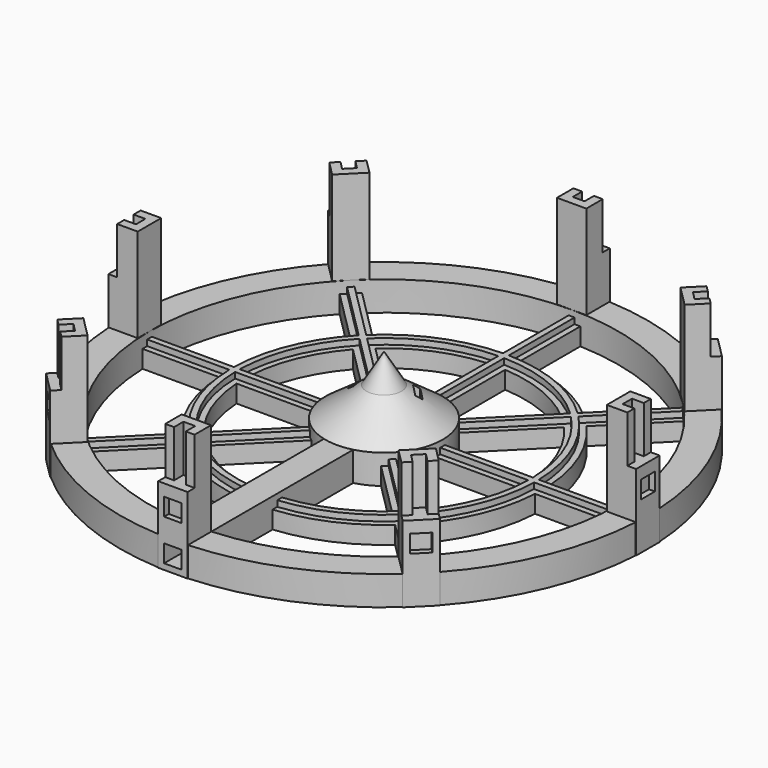
from build123d import *

# Parameters (mm, degrees)
SKETCH001_W     = 3
SKETCH001_H     = 3
PAD001_DEPTH    = 45
SKETCH002_W     = 1
SKETCH002_H     = 45
PAD002_DEPTH    = 1
SKETCH003_W     = 5
SKETCH003_H     = 5
PAD003_DEPTH    = 13
PAD004_DEPTH    = 8
SKETCH006_W     = 3
SKETCH006_H     = 3
POCKET_DEPTH    = 1
SKETCH009_W     = 3
SKETCH009_H     = 7
POCKET001_DEPTH = 5
ARRAY_COUNT     = 8
SKETCH010_R     = 45
SKETCH010_R_2   = 40
PAD005_DEPTH    = 5
SKETCH011_R     = 27
SKETCH011_R_2   = 24
PAD006_DEPTH    = 3
SKETCH012_R     = 26
SKETCH012_R_2   = 25
PAD007_DEPTH    = 1
SKETCH013_W     = 5
SKETCH013_H     = 5
PAD008_DEPTH    = 38
SKETCH_R        = 10
PAD_DEPTH       = 5
SKETCH014_R     = 9
POCKET002_DEPTH = 5
SKETCH016_W     = 5
SKETCH016_H     = 5
PAD009_DEPTH    = 10
SKETCH015_W     = 3
SKETCH015_H     = 3
POCKET003_DEPTH = 100
POCKET004_DEPTH = 1
SKETCH018_W     = 1
SKETCH018_H     = 3
POCKET005_DEPTH = 10
SKETCH019_W     = 11
SKETCH019_H     = 9
PAD010_DEPTH    = 0.5


with BuildPart() as edges:
    # Sketch001 → Pad001 (new body)
    with BuildSketch(Plane.XZ):
        with Locations((0, 1.5)):
            Rectangle(SKETCH001_W, SKETCH001_H)
    extrude(amount=PAD001_DEPTH)

    # Sketch002 (on Face1 of Pad001) → Pad002 (join)
    with BuildSketch(Plane(origin=(0, 0, 3), x_dir=(-1, 0, 0), z_dir=(0, 0, 1))):
        with Locations((0, 22.5)):
            Rectangle(SKETCH002_W, SKETCH002_H)
    extrude(amount=PAD002_DEPTH)

    # Sketch003 → Pad003 (join)
    with BuildSketch(Plane.XY):
        with Locations((0, -42.5)):
            Rectangle(SKETCH003_W, SKETCH003_H)
    extrude(amount=PAD003_DEPTH)

    # Sketch005 (on Face15 of Pad003) → Pad004 (join)
    with BuildSketch(Plane(origin=(0, 0, 13), x_dir=(-1, 0, 0), z_dir=(0, 0, 1))):
        Polygon((1, 41.5), (1, 43.5), (2.5, 43.5), (2.5, 40), (-2.5, 40), (-2.5, 43.5), (-1, 43.5), (-1, 41.5), align=None)
    extrude(amount=PAD004_DEPTH)

    # Sketch006 (on Face18 of Pad004) → Pocket (cut)
    with BuildSketch(Plane.XZ.offset(45)):
        with Locations((0, 9.5)):
            Rectangle(SKETCH006_W, SKETCH006_H)
    extrude(amount=-POCKET_DEPTH, mode=Mode.SUBTRACT)

    # Sketch009 → Pocket001 (cut)
    with BuildSketch(Plane.XY):
        with Locations((0, -3.5)):
            Rectangle(SKETCH009_W, SKETCH009_H)
    extrude(amount=POCKET001_DEPTH, mode=Mode.SUBTRACT)

    # Array: edges ×8 about axis
    array_axis = Axis((0, 0, 1), (0, 0, 1))


with BuildPart() as edges_1:
    add(edges.part)
    for i in range(1, ARRAY_COUNT):
        add(edges.part.rotate(array_axis, i * 360 / ARRAY_COUNT))

    # Sketch010 → Pad005 (new body)
    with BuildSketch(Plane.XY):
        Circle(SKETCH010_R)
        Circle(SKETCH010_R_2, mode=Mode.SUBTRACT)
    extrude(amount=PAD005_DEPTH)

    # Sketch011 → Pad006 (join)
    with BuildSketch(Plane.XY):
        Circle(SKETCH011_R)
        Circle(SKETCH011_R_2, mode=Mode.SUBTRACT)
    extrude(amount=PAD006_DEPTH)

    # Sketch012 → Pad007 (join)
    with BuildSketch(Plane.XY.offset(3)):
        Circle(SKETCH012_R)
        Circle(SKETCH012_R_2, mode=Mode.SUBTRACT)
    extrude(amount=PAD007_DEPTH)

    # Sketch013 → Pad008 (join)
    with BuildSketch(Plane.XZ.offset(7)):
        with Locations((0, 2.5)):
            Rectangle(SKETCH013_W, SKETCH013_H)
    extrude(amount=PAD008_DEPTH)


with BuildPart() as body003:
    # Sketch → Pad (new body)
    with BuildSketch(Plane.XY):
        Circle(SKETCH_R)
    extrude(amount=PAD_DEPTH)

    # Cone → Cone (revolve)
    with BuildSketch(Plane(origin=(0, 0, 5), x_dir=(1, 0, 0), z_dir=(0, -1, 0))):
        Polygon((0, 0), (10, 0), (3, 5), (0, 5), align=None)
    revolve(axis=Axis((0, 0, 5), (0, 0, 1)))

    # Cone001 → Cone001 (revolve)
    with BuildSketch(Plane(origin=(0, 0, 10), x_dir=(1, 0, 0), z_dir=(0, -1, 0))):
        Polygon((0, 0), (3, 0), (0, 5), align=None)
    revolve(axis=Axis((0, 0, 10), (0, 0, 1)))

    # Fusion: union edges
    add(edges_1.part)

    # Sketch014 (on Face3 of BaseFeature001) → Pocket002 (cut)
    with BuildSketch(Plane(origin=(0, 0, 0), x_dir=(1, 0, 0), z_dir=(0, 0, -1))):
        Circle(SKETCH014_R)
    extrude(amount=-POCKET002_DEPTH, mode=Mode.SUBTRACT)

    # Sketch016 → Pad009 (join)
    with BuildSketch(Plane.XZ.offset(8)):
        with Locations((0, 2.5)):
            Rectangle(SKETCH016_W, SKETCH016_H)
    extrude(amount=PAD009_DEPTH)

    # Sketch015 → Pocket003 (cut)
    with BuildSketch(Plane.XZ):
        with Locations((0, 2.5)):
            Rectangle(SKETCH015_W, SKETCH015_H)
    extrude(amount=POCKET003_DEPTH, mode=Mode.SUBTRACT)

    # Sketch017 → Pocket004 (cut)
    with BuildSketch(Plane.XY):
        Polygon((-10, -1), (10, -1), (10, 1), (1, 1), (1, 10), (-1, 10), (-1, 1), (-10, 1), align=None)
    extrude(amount=POCKET004_DEPTH, mode=Mode.SUBTRACT)

    # Sketch018 (on Face9 of Pocket004) → Pocket005 (cut)
    with BuildSketch(Plane(origin=(0, 0, 5), x_dir=(1, 0, 0), z_dir=(0, 0, -1))):
        with Locations((-4.5, 0)):
            Rectangle(SKETCH018_W, SKETCH018_H)
        Polygon((1.909573, -3.728023), (4.030893, -1.606702), (4.738, -2.313809), (2.61668, -4.435129), align=None)
    extrude(amount=-POCKET005_DEPTH, mode=Mode.SUBTRACT)

    # Sketch019 (on Face9 of Pocket005) → Pad010 (join)
    with BuildSketch(Plane(origin=(0, 0, 5), x_dir=(1, 0, 0), z_dir=(0, 0, -1))):
        with Locations((0.058227, -0.744926)):
            Rectangle(SKETCH019_W, SKETCH019_H)
    extrude(amount=-PAD010_DEPTH)


solid = body003.part
